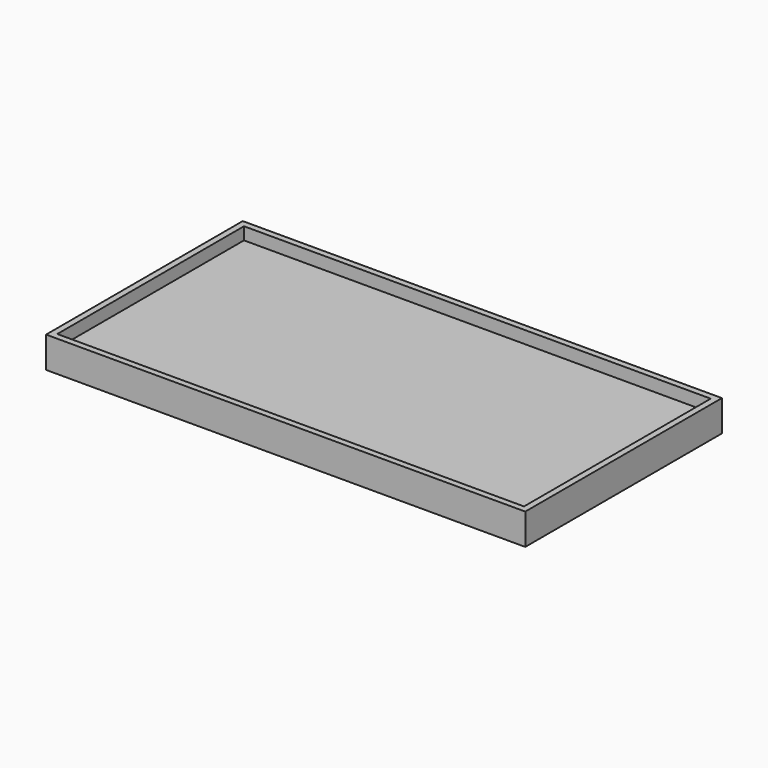
from build123d import *

# Parameters (mm, degrees)
SKETCH_W      = 150
SKETCH_H      = 75
PAD_DEPTH     = 1
SKETCH001_W   = 154
SKETCH001_H   = 79
SKETCH001_W_2 = 150
SKETCH001_H_2 = 75
PAD001_DEPTH  = 5


with BuildPart() as part:
    # Sketch → Pad (new body, symmetric)
    with BuildSketch(Plane.XY):
        Rectangle(SKETCH_W, SKETCH_H)
    extrude(amount=PAD_DEPTH, both=True)

    # Sketch001 → Pad001 (join, symmetric)
    with BuildSketch(Plane.XY):
        Rectangle(SKETCH001_W, SKETCH001_H)
        Rectangle(SKETCH001_W_2, SKETCH001_H_2, mode=Mode.SUBTRACT)
    extrude(amount=PAD001_DEPTH, both=True)


solid = part.part
